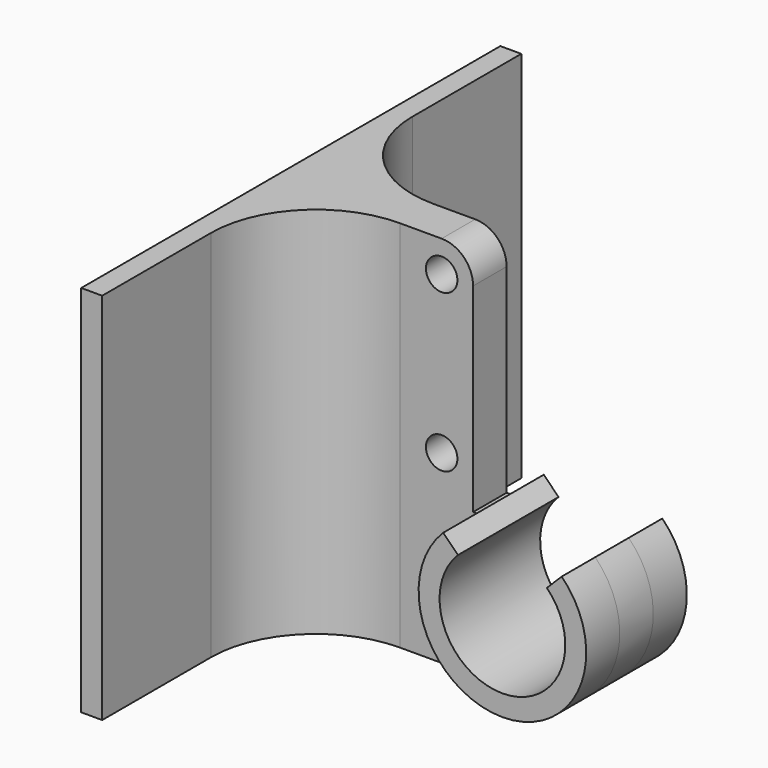
from build123d import *

# Parameters (mm, degrees)
SKETCH_R          = 1.5
PAD_DEPTH         = 4
PAD001_DEPTH      = 4
PAD001_DEPTH_BACK = 8
SKETCH002_W       = 35.656854
SKETCH002_H       = 50
PAD002_DEPTH      = 2
FILLET_R          = 10
FILLET001_R       = 3


with BuildPart() as part:
    # Sketch → Pad (new body)
    with BuildSketch(Plane.XZ):
        with BuildLine():
            ThreePointArc((20.757359, 12.242641), (25, 2), (29.242641, 12.242641))
            Line((30.656854, 13.656854), (29.242641, 12.242641))
            ThreePointArc((24.999973, 0), (32.391031, 4.93852), (30.656854, 13.656854))
            Line((0, 0), (24.999973, 0))
            Line((0, 35.656854), (0, 0))
            Line((0, 35.656854), (19, 35.656854))
            Line((19, 35.656854), (19, 13.656854))
            Line((19, 13.656854), (19.343146, 13.656854))
            Line((19.343146, 13.656854), (20.757359, 12.242641))
        make_face()
        with Locations((16, 32.656854)):
            Circle(SKETCH_R, mode=Mode.SUBTRACT)
        with Locations((16, 17.656854)):
            Circle(SKETCH_R, mode=Mode.SUBTRACT)
    extrude(amount=PAD_DEPTH)

    # Sketch001 → Pad001 (new body, two sides)
    with BuildSketch(Plane.XZ.offset(4)) as pad001_sk:
        with BuildLine():
            ThreePointArc((20.757359, 12.242641), (25, 2), (29.242641, 12.242641))
            Line((30.656854, 13.656854), (29.242641, 12.242641))
            ThreePointArc((19.343146, 13.656854), (25, 0), (30.656854, 13.656854))
            Line((20.757359, 12.242641), (19.343146, 13.656854))
        make_face()
    extrude(amount=PAD001_DEPTH)
    extrude(pad001_sk.sketch, amount=-PAD001_DEPTH_BACK)

    # Sketch002 → Pad002 (new body)
    with BuildSketch(Plane(origin=(0, 0, 0), x_dir=(0, 0, -1), z_dir=(-1, 0, 0))):
        with Locations((-17.828427, 2)):
            Rectangle(SKETCH002_W, SKETCH002_H)
    extrude(amount=-PAD002_DEPTH)

    # Fillet
    fillet_edges = [part.edges().sort_by_distance(p)[0] for p in [
        (2, -4, 17.828427),
        (2, 0, 17.828427),
    ]]
    fillet(fillet_edges, radius=FILLET_R)

    # Fillet001
    fillet001_edges = [part.edges().sort_by_distance(p)[0] for p in [
        (19, -2, 35.656854),
    ]]
    fillet(fillet001_edges, radius=FILLET001_R)


solid = part.part
